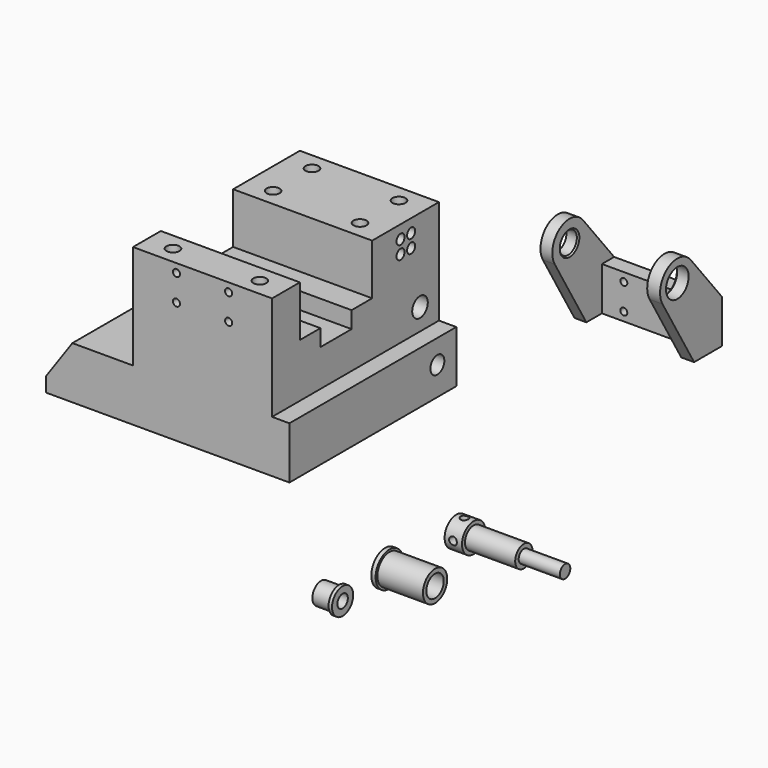
from build123d import *

# Parameters (mm, degrees)
F0_W      = 88.9
F0_H      = 76.2
F1_DEPTH  = 19.05
F2_W      = 50.8
F2_H      = 76.2
F3_DEPTH  = 38.1
F5_DEPTH  = 82.551
F7_DEPTH  = 76.201
F8_R      = 3.175
F9_DEPTH  = 88.901
F10_R     = 3.556
F11_DEPTH = 82.551
F12_R     = 1.8288
F13_DEPTH = 82.551
F14_R     = 2.0828
F15_DEPTH = 12.7
F16_R     = 2.0828
F17_DEPTH = 31.75
F16_R_2   = 3.81
F18_DEPTH = 4.699
F19_R     = 1.2954
F20_DEPTH = 6.35
F21_R     = 1.7526
F22_DEPTH = 12.7
F21_R_2   = 2.38125
F23_DEPTH = 3.81
F24_R     = 3.96875
F25_DEPTH = 4.318
F26_W     = 5.588
F26_H     = 15.875
F27_DEPTH = 34.671
F28_R     = 5.15874
F28_W     = 5.588
F28_H     = 15.875
F29_DEPTH = 4.699
F30_R     = 1.27
F31_DEPTH = 25.4
F32_SIZE  = 0.508
F33_R     = 4.826
F34_DEPTH = 1.27
F35_R     = 3.9751
F36_DEPTH = 6.604
F37_R     = 2.38125
F38_DEPTH = 25.4
F39_R     = 6.35
F40_DEPTH = 1.5748
F41_R     = 5.5499
F42_DEPTH = 16.637
F43_R     = 3.96875
F44_DEPTH = 25.4
F45_R     = 5.334
F46_DEPTH = 6.35
F47_R     = 3.9624
F48_DEPTH = 18.3388
F49_R     = 2.3749
F50_DEPTH = 15.0622
F52_DEPTH = 7.874
F54_R     = 1.4224
F55_DEPTH = 5.08
F57_R     = 1.4224
F58_DEPTH = 5.08


with BuildPart() as f1:
    # F0 (on Top) → F1 (new body)
    with BuildSketch(Plane.XY):
        with Locations((-44.45, -38.1)):
            Rectangle(F0_W, F0_H)
    extrude(amount=F1_DEPTH)

    # F2 (on face) → F3 (join)
    with BuildSketch(Plane.XY.offset(19.05)):
        with Locations((-31.75, -38.1)):
            Rectangle(F2_W, F2_H)
    extrude(amount=F3_DEPTH)

    # F4 (on face) → F5 (cut, through all)
    with BuildSketch(Plane.YZ.offset(-6.35)):
        Polygon((-60.96, 38.608), (-54.102, 38.608), (-54.102, 35.052), (-54.102, 32.512), (-51.562, 32.512), (-42.418, 32.512), (-39.878, 32.512), (-39.878, 35.052), (-39.878, 38.608), (-33.02, 38.608), (-30.48, 38.608), (-30.48, 41.148), (-30.48, 41.402), (-30.48, 57.15), (-63.5, 57.15), (-63.5, 41.148), (-63.5, 38.608), align=None)
    extrude(amount=-F5_DEPTH, mode=Mode.SUBTRACT)

    # F6 (on face) → F7 (cut, through all)
    with BuildSketch(Plane.XZ.offset(76.2)):
        Polygon((-88.9, 19.05), (-88.9, 5.3411251865), (-79.3009425152, 19.05), align=None)
    extrude(amount=-F7_DEPTH, mode=Mode.SUBTRACT)

    # F8 (on face) → F9 (cut, through all)
    with BuildSketch(Plane.YZ):
        with Locations((-8.636, 10.414)):
            Circle(F8_R)
    extrude(amount=-F9_DEPTH, mode=Mode.SUBTRACT)

    # F10 (on face) → F11 (cut, through all)
    with BuildSketch(Plane.YZ.offset(-6.35)):
        with Locations((-8.636, 26.924)):
            Circle(F10_R)
    extrude(amount=-F11_DEPTH, mode=Mode.SUBTRACT)

    # F12 (on face) → F13 (cut, through all)
    with BuildSketch(Plane.YZ.offset(-6.35)):
        with Locations((-17.526, 47.498)):
            Circle(F12_R)
        with Locations((-12.7, 47.498)):
            Circle(F12_R)
        with Locations((-12.7, 52.324)):
            Circle(F12_R)
        with Locations((-17.526, 52.324)):
            Circle(F12_R)
    extrude(amount=-F13_DEPTH, mode=Mode.SUBTRACT)

    # F14 (on face) → F15 (cut)
    with BuildSketch(Plane(origin=(0, 0, 0), x_dir=(1, 0, 0), z_dir=(0, 0, -1))):
        with Locations((-76.2, 69.85)):
            Circle(F14_R)
        with Locations((-6.35, 69.85)):
            Circle(F14_R)
        with Locations((-76.2, 16.002)):
            Circle(F14_R)
        with Locations((-6.35, 16.002)):
            Circle(F14_R)
    extrude(amount=-F15_DEPTH, mode=Mode.SUBTRACT)

    # F16 (on face) → F17 (cut)
    with BuildSketch(Plane(origin=(0, 0, 0), x_dir=(1, 0, 0), z_dir=(0, 0, -1))):
        with Locations((-49.276, 61.976)):
            Circle(F16_R)
        with Locations((-14.224, 61.976)):
            Circle(F16_R)
        with Locations((-14.224, 23.876)):
            Circle(F16_R)
        with Locations((-49.276, 23.876)):
            Circle(F16_R)
    extrude(amount=-F17_DEPTH, mode=Mode.SUBTRACT)

    # F16 (on face) → F18 (cut)
    with BuildSketch(Plane(origin=(0, 0, 0), x_dir=(1, 0, 0), z_dir=(0, 0, -1))):
        with Locations((-49.276, 61.976)):
            Circle(F16_R_2)
        with Locations((-49.276, 61.976)):
            Circle(F16_R, mode=Mode.SUBTRACT)
        with Locations((-14.224, 61.976)):
            Circle(F16_R_2)
        with Locations((-14.224, 61.976)):
            Circle(F16_R, mode=Mode.SUBTRACT)
        with Locations((-14.224, 23.876)):
            Circle(F16_R_2)
        with Locations((-14.224, 23.876)):
            Circle(F16_R, mode=Mode.SUBTRACT)
        with Locations((-49.276, 23.876)):
            Circle(F16_R_2)
        with Locations((-49.276, 23.876)):
            Circle(F16_R, mode=Mode.SUBTRACT)
    extrude(amount=-F18_DEPTH, mode=Mode.SUBTRACT)

    # F19 (on face) → F20 (cut)
    with BuildSketch(Plane.XZ.offset(76.2)):
        with Locations((-41.275, 44.45)):
            Circle(F19_R)
        with Locations((-41.275, 53.975)):
            Circle(F19_R)
        with Locations((-22.225, 53.975)):
            Circle(F19_R)
        with Locations((-22.225, 44.45)):
            Circle(F19_R)
    extrude(amount=-F20_DEPTH, mode=Mode.SUBTRACT)

    # F21 (on face) → F22 (cut)
    with BuildSketch(Plane.XY.offset(57.15)):
        with Locations((-47.625, -6.35)):
            Circle(F21_R)
        with Locations((-15.875, -6.35)):
            Circle(F21_R)
        with Locations((-15.875, -24.13)):
            Circle(F21_R)
        with Locations((-47.625, -24.13)):
            Circle(F21_R)
        with Locations((-47.625, -69.85)):
            Circle(F21_R)
        with Locations((-15.875, -69.85)):
            Circle(F21_R)
    extrude(amount=-F22_DEPTH, mode=Mode.SUBTRACT)

    # F21 (on face) → F23 (cut)
    with BuildSketch(Plane.XY.offset(57.15)):
        with Locations((-47.625, -6.35)):
            Circle(F21_R_2)
        with Locations((-47.625, -6.35)):
            Circle(F21_R, mode=Mode.SUBTRACT)
        with Locations((-15.875, -6.35)):
            Circle(F21_R_2)
        with Locations((-15.875, -6.35)):
            Circle(F21_R, mode=Mode.SUBTRACT)
        with Locations((-15.875, -24.13)):
            Circle(F21_R_2)
        with Locations((-15.875, -24.13)):
            Circle(F21_R, mode=Mode.SUBTRACT)
        with Locations((-47.625, -24.13)):
            Circle(F21_R_2)
        with Locations((-47.625, -24.13)):
            Circle(F21_R, mode=Mode.SUBTRACT)
        with Locations((-47.625, -69.85)):
            Circle(F21_R_2)
        with Locations((-47.625, -69.85)):
            Circle(F21_R, mode=Mode.SUBTRACT)
        with Locations((-15.875, -69.85)):
            Circle(F21_R_2)
        with Locations((-15.875, -69.85)):
            Circle(F21_R, mode=Mode.SUBTRACT)
    extrude(amount=-F23_DEPTH, mode=Mode.SUBTRACT)


with BuildPart() as f25:
    # F24 (on Right) → F25 (new body)
    with BuildSketch(Plane.YZ):
        with BuildLine():
            Line((66.6880309101, 15.875), (52.4441787193, 33.520744286))
            ThreePointArc((52.4441787193, 33.520744286), (41.836325658, 35.0496709663), (39.53002844, 24.5832887591))
            Line((39.53002844, 24.5832887591), (53.9880309101, 0))
            Line((53.9880309101, 0), (66.6880309101, 0))
            Line((66.6880309101, 0), (66.6880309101, 15.875))
        make_face()
        with Locations((46.3172309101, 28.575)):
            Circle(F24_R, mode=Mode.SUBTRACT)
    extrude(amount=F25_DEPTH)

    # F26 (on face) → F27 (join)
    with BuildSketch(Plane.YZ.offset(4.318)):
        with Locations((63.8940309101, 7.9375)):
            Rectangle(F26_W, F26_H)
    extrude(amount=F27_DEPTH)

    # F28 (on face) → F29 (join)
    with BuildSketch(Plane.YZ.offset(38.989)):
        with BuildLine():
            Line((66.6880309101, 15.875), (52.4441787193, 33.520744286))
            ThreePointArc((52.4441787193, 33.520744286), (41.836325658, 35.0496709663), (39.53002844, 24.5832887591))
            Line((39.53002844, 24.5832887591), (53.9880309101, 0))
            Line((53.9880309101, 0), (61.1000309101, 0))
            Line((61.1000309101, 0), (61.1000309101, 15.875))
            Line((61.1000309101, 15.875), (66.6880309101, 15.875))
        make_face()
        with Locations((46.3172309101, 28.575)):
            Circle(F28_R, mode=Mode.SUBTRACT)
        with Locations((63.8940309101, 7.9375)):
            Rectangle(F28_W, F28_H)
    extrude(amount=F29_DEPTH)

    # F30 (on face) → F31 (cut)
    with BuildSketch(Plane(origin=(0, 66.6880309101, 0), x_dir=(-1, 0, 0), z_dir=(0, 1, 0))):
        with Locations((-31.369, 12.7)):
            Circle(F30_R)
        with Locations((-31.369, 3.175)):
            Circle(F30_R)
        with Locations((-12.319, 12.7)):
            Circle(F30_R)
        with Locations((-12.319, 3.175)):
            Circle(F30_R)
    extrude(amount=-F31_DEPTH, mode=Mode.SUBTRACT)

    # F32
    f32_edges = [f25.edges().sort_by_distance(p)[0] for p in [
        (4.318, 42.348481, 28.575),
        (38.989, 41.158491, 28.575),
    ]]
    chamfer(f32_edges, length=F32_SIZE)


with BuildPart() as f34:
    # F33 (on Right) → F34 (new body)
    with BuildSketch(Plane.YZ):
        with Locations((-53.4978471696, -46.9392836094)):
            Circle(F33_R)
    extrude(amount=F34_DEPTH)

    # F35 (on face) → F36 (join)
    with BuildSketch(Plane(origin=(0, 0, 0), x_dir=(0, -1, 0), z_dir=(-1, 0, 0))):
        with Locations((53.4978471696, -46.9392836094)):
            Circle(F35_R)
    extrude(amount=F36_DEPTH)

    # F37 (on face) → F38 (cut)
    with BuildSketch(Plane(origin=(-6.604, 0, 0), x_dir=(0, -1, 0), z_dir=(-1, 0, 0))):
        with Locations((53.4978471696, -46.9392836094)):
            Circle(F37_R)
    extrude(amount=-F38_DEPTH, mode=Mode.SUBTRACT)


with BuildPart() as f40:
    # F39 (on Right) → F40 (new body)
    with BuildSketch(Plane.YZ):
        with Locations((-30.4942838848, -46.4332811534)):
            Circle(F39_R)
    extrude(amount=-F40_DEPTH)

    # F41 (on face) → F42 (join)
    with BuildSketch(Plane.YZ):
        with Locations((-30.4942838848, -46.4332811534)):
            Circle(F41_R)
    extrude(amount=F42_DEPTH)

    # F43 (on face) → F44 (cut)
    with BuildSketch(Plane.YZ.offset(16.637)):
        with Locations((-30.4942838848, -46.4332811534)):
            Circle(F43_R)
    extrude(amount=-F44_DEPTH, mode=Mode.SUBTRACT)


with BuildPart() as f46:
    # F45 (on Right) → F46 (new body)
    with BuildSketch(Plane.YZ):
        with Locations((0, -46.6264560819)):
            Circle(F45_R)
    extrude(amount=F46_DEPTH)

    # F47 (on face) → F48 (join)
    with BuildSketch(Plane.YZ.offset(6.35)):
        with Locations((0, -46.6264560819)):
            Circle(F47_R)
    extrude(amount=F48_DEPTH)

    # F49 (on face) → F50 (join)
    with BuildSketch(Plane.YZ.offset(24.6888)):
        with Locations((0, -46.6264560819)):
            Circle(F49_R)
    extrude(amount=F50_DEPTH)

    # F51 (on face) → F52 (cut)
    with BuildSketch(Plane(origin=(0, 0, 0), x_dir=(0, -1, 0), z_dir=(-1, 0, 0))):
        with BuildLine():
            Line((0, -46.6264560819), (2.38125, -46.6264560819))
            ThreePointArc((2.38125, -46.6264560819), (1.6837980227, -44.9426580592), (0, -44.2452060819))
            Line((0, -44.2452060819), (0, -46.6264560819))
        make_face()
        with BuildLine():
            ThreePointArc((0, -44.2452060819), (-1.6837980227, -48.3102541046), (2.38125, -46.6264560819))
            Line((2.38125, -46.6264560819), (0, -46.6264560819))
            Line((0, -46.6264560819), (0, -44.2452060819))
        make_face()
    extrude(amount=-F52_DEPTH, mode=Mode.SUBTRACT)

    # F54 (on plane+point) → F55 (cut)
    with BuildSketch(Plane.XZ.offset(5.334)):
        with Locations((3.048, -46.6578938067)):
            Circle(F54_R)
    extrude(amount=-F55_DEPTH, mode=Mode.SUBTRACT)

    # F57 (on plane+point) → F58 (cut)
    with BuildSketch(Plane.XY.offset(-41.2924560819)):
        with Locations((3.048, 0)):
            Circle(F57_R)
    extrude(amount=-F58_DEPTH, mode=Mode.SUBTRACT)


solid = Compound([f1.part, f25.part, f34.part, f40.part, f46.part])
